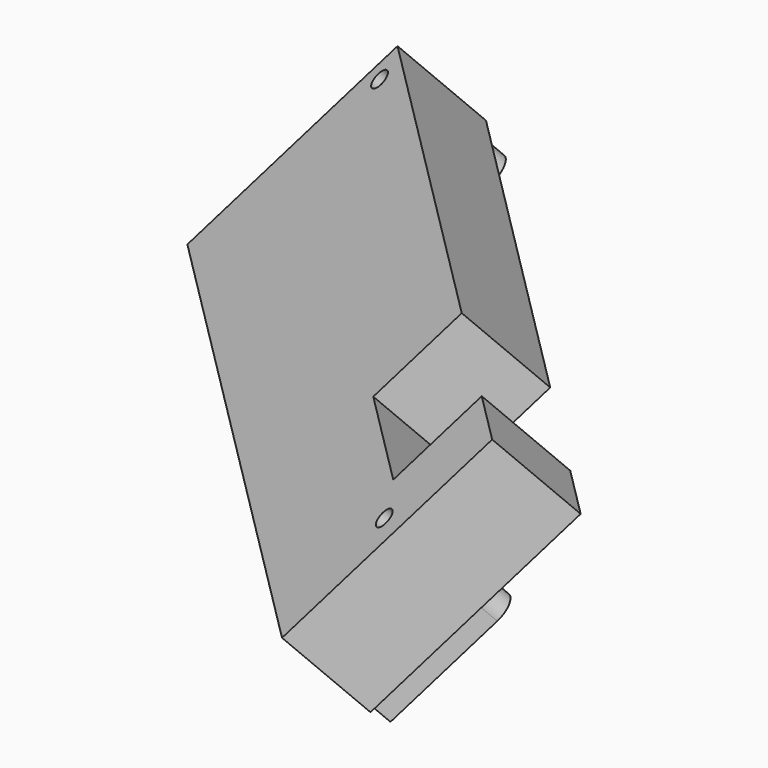
from build123d import *

# Parameters (mm, degrees)
SKETCH001_R             = 0.75
PAD_DEPTH               = 10
POCKET001_DEPTH         = 5
POCKET002_DEPTH         = 2
BODY001_ROLL_ANGLE      = 44.999986
BODY001_PITCH_ANGLE     = -3.6e-05
BODY001_PLACEMENT_ANGLE = -44.999986


with BuildPart() as part:
    # Sketch001 → Pad (new body)
    with BuildSketch(Plane.XY):
        Polygon((-26.02, -9.66), (28.45, -9.66), (28.45, 9.34), (22.45, 9.34), (22.45, 1.34), (10.95, 1.34), (10.95, 9.34), (-26.02, 9.34), align=None)
        with Locations((-24.19, 7.43)):
            Circle(SKETCH001_R, mode=Mode.SUBTRACT)
        with Locations((25.81, 0)):
            Circle(SKETCH001_R, mode=Mode.SUBTRACT)
    extrude(amount=PAD_DEPTH)

    # Sketch007 → Pocket001 (cut)
    with BuildSketch(Plane.XY):
        with BuildLine():
            Line((-26.02, -9.66), (-26.02, 9.34))
            Line((-26.02, 9.34), (28.45, 9.34))
            Line((28.45, 9.34), (28.45, -9.66))
            Line((27.21, -9.66), (28.45, -9.66))
            Line((27.21, -9.66), (27.21, 0))
            ThreePointArc((27.21, 0), (25.81, 1.4), (24.41, 0))
            Line((24.41, 0), (24.41, -9.66))
            Line((-22.79, -9.66), (24.41, -9.66))
            Line((-22.79, -9.66), (-22.79, 7.43))
            ThreePointArc((-22.79, 7.43), (-24.19, 8.83), (-25.59, 7.43))
            Line((-25.59, 7.43), (-25.59, -9.66))
            Line((-26.02, -9.66), (-25.59, -9.66))
        make_face()
    extrude(amount=-POCKET001_DEPTH, mode=Mode.SUBTRACT)

    # Sketch007 → Pocket002 (cut)
    with BuildSketch(Plane.XY):
        with BuildLine():
            Line((-26.02, -9.66), (-26.02, 9.34))
            Line((-26.02, 9.34), (28.45, 9.34))
            Line((28.45, 9.34), (28.45, -9.66))
            Line((27.21, -9.66), (28.45, -9.66))
            Line((27.21, -9.66), (27.21, 0))
            ThreePointArc((27.21, 0), (25.81, 1.4), (24.41, 0))
            Line((24.41, 0), (24.41, -9.66))
            Line((-22.79, -9.66), (24.41, -9.66))
            Line((-22.79, -9.66), (-22.79, 7.43))
            ThreePointArc((-22.79, 7.43), (-24.19, 8.83), (-25.59, 7.43))
            Line((-25.59, 7.43), (-25.59, -9.66))
            Line((-26.02, -9.66), (-25.59, -9.66))
        make_face()
    extrude(amount=POCKET002_DEPTH, mode=Mode.SUBTRACT)


with BuildPart() as part_1:
    # Body001 roll: moved
    add(part.part.rotate(Axis((0, 0, 0), (1, 0, 0)), BODY001_ROLL_ANGLE))


with BuildPart() as part_2:
    # Body001 pitch: moved
    add(part_1.part.rotate(Axis((0, 0, 0), (0, 1, 0)), BODY001_PITCH_ANGLE))


with BuildPart() as part_3:
    # Body001 placement: moved
    add(part_2.part.moved(Location((25.88, 22.93, 6.87071))).rotate(Axis((25.88, 22.93, 6.87071), (0, 0, 1)), BODY001_PLACEMENT_ANGLE))


solid = part_3.part
